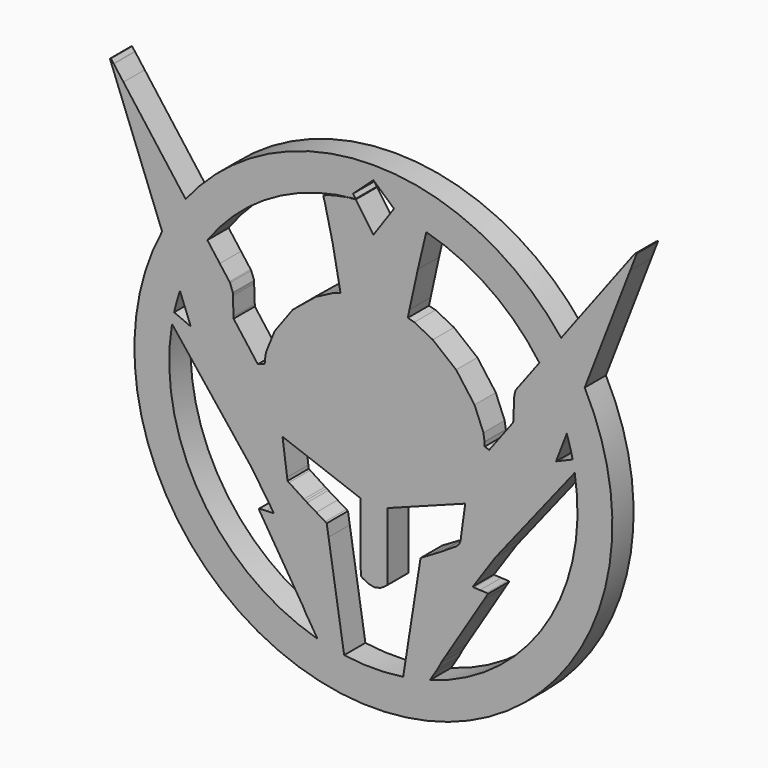
from build123d import *

# Parameters (mm, degrees)
F1_R     = 18
F1_R_2   = 15.375
F2_DEPTH = 2
F3_DEPTH = 2


with BuildPart() as f2:
    # F0 (on Front) + F1 (on Front) → F2 (new body)
    with BuildSketch(Plane.XZ):
        Polygon((-19.759701, 18.612917), (-19.777608, 18.638063), (-19.78312, 18.635015), (-19.838238, 18.599201), (-19.84375, 18.595391), (-19.339382, 17.290085), (-14.268196, 4.150538), (-13.75283, 2.817952), (-13.962278, 2.907538), (-15.865373, 3.71508), (-16.047263, 3.792271), (-16.052775, 3.786734), (-16.102355, 3.723335), (-16.106496, 3.716452), (-15.529103, 2.9861), (-9.7441, -4.321632), (-9.165336, -5.053381), (-7.495159, -7.521448), (-7.584719, -7.543521), (-8.051876, -7.553147), (-8.541055, -7.579309), (-8.64169, -7.611034), (-8.356422, -8.069885), (-5.541086, -12.599518), (-5.259984, -13.050114), (-5.24068, -13.105257), (-5.03809, -13.466293), (-4.838268, -13.77635), (-4.819015, -13.806678), (-4.638472, -14.096086), (-2.836012, -17.000982), (-2.655468, -17.291736), (-1.86309, -17.366158), (-2.00091, -16.493846), (-3.376193, -7.774991), (-3.513988, -6.901307), (-3.62839, -6.829654), (-4.295343, -6.427292), (-4.989855, -6.00837), (-5.116652, -5.929808), (-5.2324, -5.854014), (-6.355512, -5.125034), (-6.465748, -5.053381), (-6.497472, -4.820488), (-6.808902, -2.487473), (-6.840576, -2.240788), (-6.338951, -2.426818), (-1.459332, -4.229303), (-0.975639, -4.408449), (-0.966013, -4.848047), (-0.952221, -9.157183), (-0.928802, -9.578873), (-0.796493, -9.667062), (-0.363779, -9.887534), (0.114376, -9.981235), (0.566395, -9.855835), (0.938454, -9.609176), (1.050087, -9.512706), (1.050087, -4.407078), (1.536522, -4.223791), (6.418834, -2.391004), (6.919214, -2.203577), (6.887464, -2.429612), (6.603492, -4.478757), (6.582918, -4.675784), (6.573266, -4.754347), (6.452108, -5.064404), (6.210808, -5.289017), (6.143244, -5.326228), (6.055106, -5.374462), (5.199355, -5.922924), (5.11114, -5.979439), (5.003648, -6.045581), (4.333951, -6.43829), (3.661435, -6.832422), (3.553943, -6.901307), (3.410661, -7.805293), (1.989887, -16.817696), (1.847952, -17.717541), (2.517673, -17.571466), (2.709215, -17.261408), (4.635703, -14.160856), (4.830013, -13.852169), (4.845202, -13.825957), (5.097348, -13.354685), (5.120792, -13.303707), (5.421198, -12.817246), (8.345424, -8.093304), (8.636254, -7.623404), (8.528558, -7.594498), (8.031226, -7.576566), (7.577836, -7.553147), (7.492492, -7.522845), (9.188704, -5.028565), (9.764776, -4.299585), (15.527782, 2.984729), (16.105124, 3.712337), (16.09979, 3.719195), (16.050006, 3.781222), (16.045688, 3.786734), (15.861284, 3.709568), (13.959586, 2.907538), (13.755624, 2.820746), (14.269466, 4.153306), (19.339306, 17.284751), (19.84375, 18.589549), (19.817588, 18.586755), (19.671538, 18.500141), (19.663156, 18.487695), (18.92046, 17.499635), (11.50112, 7.609383), (10.759694, 6.619977), (10.733532, 6.586906), (10.613644, 6.223102), (10.612374, 6.181776), (10.606786, 6.030189), (10.537952, 4.503318), (10.532364, 4.35036), (8.723122, 1.944319), (8.717534, 1.934642), (8.384032, 2.050415), (8.382508, 2.077974), (8.37438, 2.339797), (8.372856, 2.379777), (8.286242, 2.944749), (7.617714, 4.576343), (6.234176, 6.447739), (4.474489, 7.867193), (3.082671, 8.572551), (2.592095, 8.704885), (2.714727, 9.290609), (3.347263, 12.166651), (3.923284, 14.594637), (4.019728, 14.955825), (3.862629, 15.030247), (2.64447, 15.287803), (1.393957, 15.372972), (0, 13.366205), (-1.320852, 15.286005), (-1.918233, 15.225827), (-3.001366, 15.015007), (-3.598062, 14.824761), (-3.77444, 14.722907), (-3.6449, 14.281963), (-3.07025, 11.840007), (-2.571445, 9.225839), (-2.477694, 8.696757), (-2.965526, 8.557565), (-4.340835, 7.843571), (-6.072988, 6.428435), (-7.433132, 4.572229), (-8.089087, 2.95717), (-8.174533, 2.397658), (-8.177276, 2.365985), (-8.182788, 2.160676), (-8.182788, 2.135835), (-8.239303, 2.116557), (-8.659597, 1.974621), (-8.703691, 1.958061), (-10.526827, 4.382033), (-10.532364, 4.521251), (-10.580573, 5.899252), (-10.584713, 6.037047), (-10.587457, 6.104585), (-10.801071, 6.684823), (-10.841025, 6.737147), (-11.567262, 7.704379), (-18.822619, 17.374413), (-19.547484, 18.340121), (-19.566763, 18.366283), align=None)
    with BuildSketch(Plane.XZ):
        Circle(F1_R)
        Circle(F1_R_2, mode=Mode.SUBTRACT)
    extrude(amount=F2_DEPTH)


with BuildPart() as f3:
    # F0 (on Front) → F3 (new body)
    with BuildSketch(Plane.XZ):
        Polygon((-0.644906, 15.354097), (-1.320852, 15.286005), (0, 13.366205), (1.393957, 15.372972), (1.04455, 15.396769), (0.698678, 15.396769), (0.362407, 15.396769), align=None)
        Polygon((-1.533912, 15.595678), (-1.320852, 15.286005), (-0.644906, 15.354097), (0.362407, 15.396769), (0.698678, 15.396769), (1.04455, 15.396769), (1.393957, 15.372972), (1.555467, 15.605485), (0, 16.993944), align=None)
    extrude(amount=F3_DEPTH)


with BuildPart() as f2_1:
    add(f2.part)

    # F4: cut F3
    add(f3.part, mode=Mode.SUBTRACT)


solid = f2_1.part
